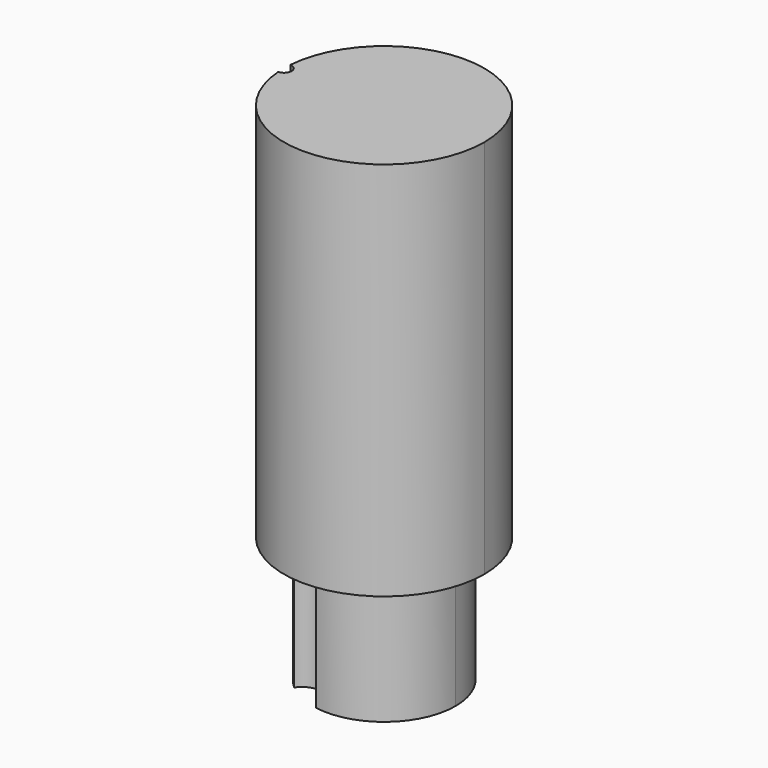
from build123d import *

# Parameters (mm, degrees)
F1_DEPTH = 118.618
F3_DEPTH = 39.116


with BuildPart() as f1:
    # F0 (on Top) → F1 (new body)
    with BuildSketch(Plane.XY):
        with BuildLine():
            ThreePointArc((-31.144165, -2.3861), (1.193922, -31.21261), (31.235436, 0))
            ThreePointArc((31.235436, 0), (1.193922, 31.21261), (-31.144165, 2.3861))
            ThreePointArc((-31.144165, 2.3861), (-29.515009, 1.655877), (-28.847592, 0))
            ThreePointArc((-28.847592, 0), (-29.515009, -1.655877), (-31.144165, -2.3861))
        make_face()
    extrude(amount=F1_DEPTH)

    # F2 (on face) → F3 (join)
    with BuildSketch(Plane(origin=(0, 0, 0), x_dir=(1, 0, 0), z_dir=(0, 0, -1))):
        with BuildLine():
            ThreePointArc((-14.519392, 16.895184), (-9.295511, -20.244838), (22.276894, 0))
            ThreePointArc((22.276894, 0), (14.364622, 17.026968), (-3.751658, 21.958713))
            ThreePointArc((-3.751658, 21.958713), (-3.545047, 21.069466), (-3.475642, 20.159175))
            ThreePointArc((-3.475642, 20.159175), (-7.778073, 14.40118), (-14.519392, 16.895184))
        make_face()
    extrude(amount=F3_DEPTH)


solid = f1.part
